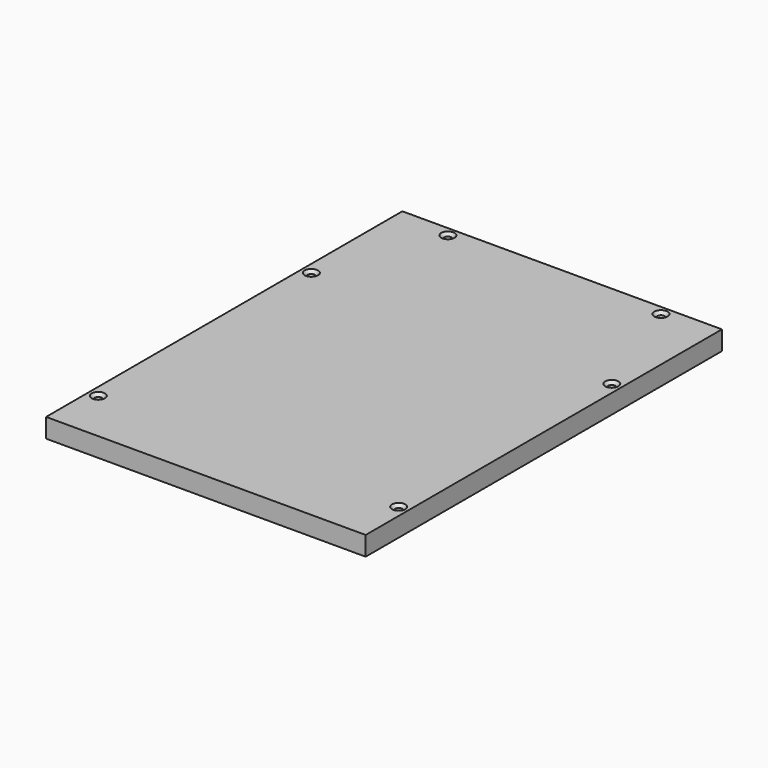
from build123d import *

# Parameters (mm, degrees)
F3_W           = 300
F3_H           = 418
F0_DEPTH       = 18
F2_D           = 7
F2_CSINK_D     = 12.5
F2_CSINK_ANGLE = 90


with BuildPart() as f0:
    # F3 (on Top) → F0 (new body)
    with BuildSketch(Plane.XY):
        with Locations((150, 209)):
            Rectangle(F3_W, F3_H)
    extrude(amount=F0_DEPTH)

    # F2 (through all)
    with Locations(Plane.XY.offset(18)):
        with Locations((9, 50), (291, 50), (9, 300), (291, 300), (50, 409), (250, 409)):
            CounterSinkHole(F2_D / 2, F2_CSINK_D / 2, counter_sink_angle=F2_CSINK_ANGLE)


solid = f0.part
